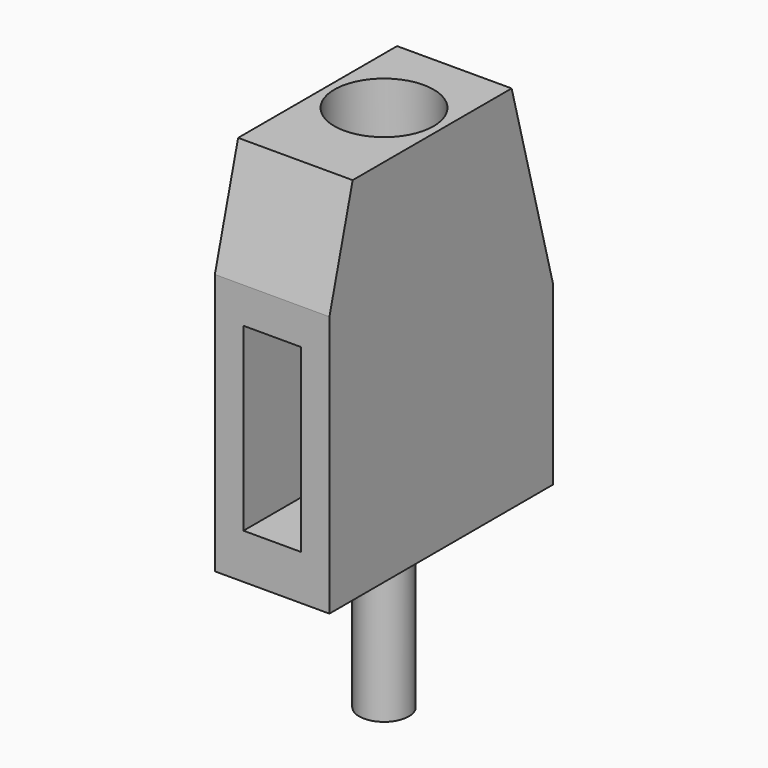
from build123d import *

# Parameters (mm, degrees)
CYLINDER003_R           = 0.55
CYLINDER003_DEPTH       = 3.5
CYLINDER002_R           = 1.1
CYLINDER002_DEPTH       = 3.5
CUBE007_W               = 4
CUBE007_H               = 6
CUBE007_DEPTH           = 9
CUBE007_PLACEMENT_ANGLE = 15
CUBE006_W               = 4
CUBE006_H               = 6
CUBE006_DEPTH           = 8
CUBE006_PLACEMENT_ANGLE = 15
CUBE005_W               = 1.27
CUBE005_H               = 3
CUBE005_DEPTH           = 4
CUBE004_W               = 2.54
CUBE004_H               = 6.2
CUBE004_DEPTH           = 8.2


with BuildPart() as cylinder003:
    # cylinder003 → cylinder003 (new body)
    with BuildSketch(Plane(origin=(1.27, 3.1, -3.5), x_dir=(1, 0, 0), z_dir=(0, 0, 1))):
        Circle(CYLINDER003_R)
    extrude(amount=CYLINDER003_DEPTH)


with BuildPart() as cylinder002:
    # cylinder002 → cylinder002 (new body)
    with BuildSketch(Plane(origin=(1.27, 3.1, 5), x_dir=(1, 0, 0), z_dir=(0, 0, 1))):
        Circle(CYLINDER002_R)
    extrude(amount=CYLINDER002_DEPTH)


with BuildPart() as cube007:
    # cube007 → cube007 (new body)
    with BuildSketch(Plane.XY):
        with Locations((2, 3)):
            Rectangle(CUBE007_W, CUBE007_H)
    extrude(amount=CUBE007_DEPTH)


with BuildPart() as cube007_1:
    # cube007 placement: moved
    add(cube007.part.moved(Location((-1, -7.244444, 1.941143))).rotate(Axis((-1, -7.244444, 1.941143), (-1, 0, 0)), CUBE007_PLACEMENT_ANGLE))


with BuildPart() as cube006:
    # cube006 → cube006 (new body)
    with BuildSketch(Plane.XY):
        with Locations((2, 3)):
            Rectangle(CUBE006_W, CUBE006_H)
    extrude(amount=CUBE006_DEPTH)


with BuildPart() as cube006_1:
    # cube006 placement: moved
    add(cube006.part.moved(Location((-1, 6.761481, 1.811733))).rotate(Axis((-1, 6.761481, 1.811733), (1, 0, 0)), CUBE006_PLACEMENT_ANGLE))


with BuildPart() as cube005:
    # cube005 → cube005 (new body)
    with BuildSketch(Plane(origin=(0.635, -1, 1), x_dir=(1, 0, 0), z_dir=(0, 0, 1))):
        with Locations((0.635, 1.5)):
            Rectangle(CUBE005_W, CUBE005_H)
    extrude(amount=CUBE005_DEPTH)


with BuildPart() as group001:
    # cube004 → cube004 (new body)
    with BuildSketch(Plane.XY):
        with Locations((1.27, 3.1)):
            Rectangle(CUBE004_W, CUBE004_H)
    extrude(amount=CUBE004_DEPTH)

    # difference004: cut cube005
    add(cube005.part, mode=Mode.SUBTRACT)

    # difference005: cut cube006
    add(cube006_1.part, mode=Mode.SUBTRACT)

    # difference006: cut cube007
    add(cube007_1.part, mode=Mode.SUBTRACT)

    # difference007: cut cylinder002
    add(cylinder002.part, mode=Mode.SUBTRACT)

    # Group001: union cylinder003
    add(cylinder003.part)


with BuildPart() as group001_1:
    # Group001 placement: moved
    add(group001.part.moved(Location((2.54, 0, 0))))


solid = group001_1.part
